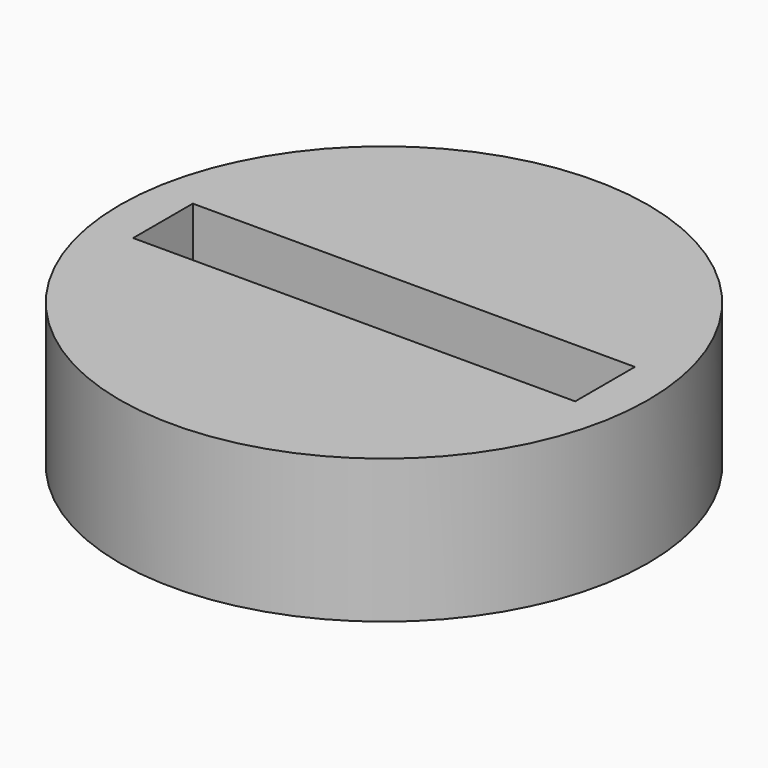
from build123d import *

# Parameters (mm, degrees)
F0_R     = 46
F1_DEPTH = 25
F3_DEPTH = 10
F4_W     = 77
F4_H     = 13
F5_DEPTH = 15


with BuildPart() as f1:
    # F0 (on Top) → F1 (new body)
    with BuildSketch(Plane.XY):
        Circle(F0_R)
    extrude(amount=F1_DEPTH)

    # F2 (on face) → F3 (cut)
    with BuildSketch(Plane(origin=(0, 0, 0), x_dir=(1, 0, 0), z_dir=(0, 0, -1))):
        with BuildLine():
            Line((29.344931, -29.344931), (26.516504, -26.516504))
            ThreePointArc((26.516504, -26.516504), (0, 37.5), (-26.516504, -26.516504))
            Line((-26.516504, -26.516504), (-29.344931, -29.344931))
            ThreePointArc((-29.344931, -29.344931), (0, -41.5), (29.344931, -29.344931))
        make_face()
    extrude(amount=-F3_DEPTH, mode=Mode.SUBTRACT)

    # F4 (on face) → F5 (cut)
    with BuildSketch(Plane.XY.offset(25)):
        Rectangle(F4_W, F4_H)
    extrude(amount=-F5_DEPTH, mode=Mode.SUBTRACT)


solid = f1.part
